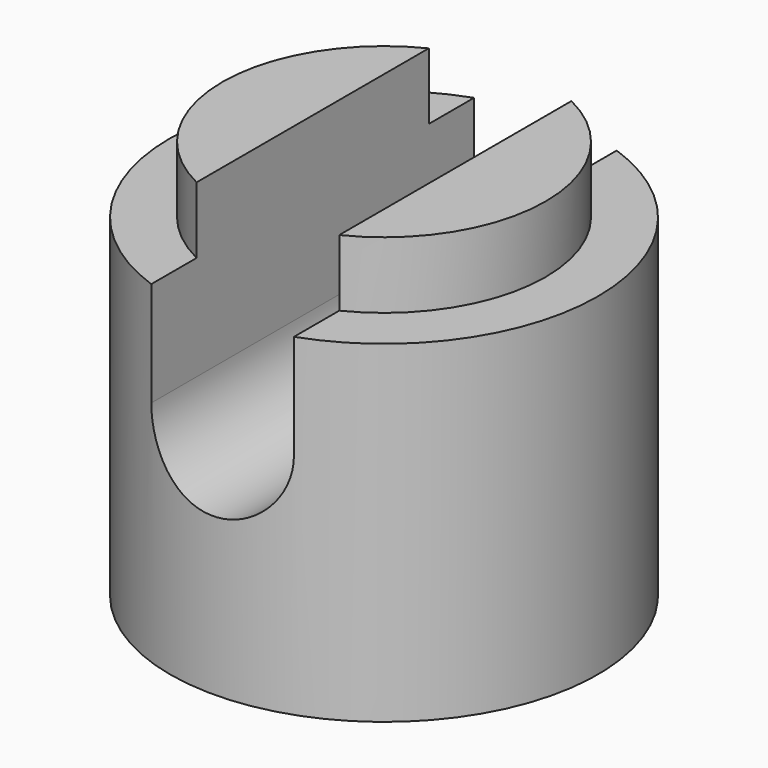
from build123d import *

# Parameters (mm, degrees)
F3_DEPTH      = 22.501
F3_DEPTH_BACK = 22.501


with BuildPart() as f1:
    # F0 (on Front) → F1 (revolve)
    with BuildSketch(Plane.XZ):
        Polygon((-22.5, 0), (-4.75, 0), (-4.75, 42), (-17, 42), (-17, 35), (-22.5, 35), align=None)
    revolve(axis=Axis((0, 0, 14.5431826879), (0, 0, 1)))

    # F2 (on Front) → F3 (cut, two sides)
    with BuildSketch(Plane.XZ) as f3_sk:
        with BuildLine():
            Line((-7.5, 56.581006925), (-7.5, 24))
            ThreePointArc((-7.5, 24), (0, 16.5), (7.5, 24))
            Line((7.5, 24), (7.5, 56.581006925))
            Line((7.5, 56.581006925), (-7.5, 56.581006925))
        make_face()
    extrude(amount=-F3_DEPTH, mode=Mode.SUBTRACT)
    extrude(f3_sk.sketch, amount=F3_DEPTH_BACK, mode=Mode.SUBTRACT)


solid = f1.part
